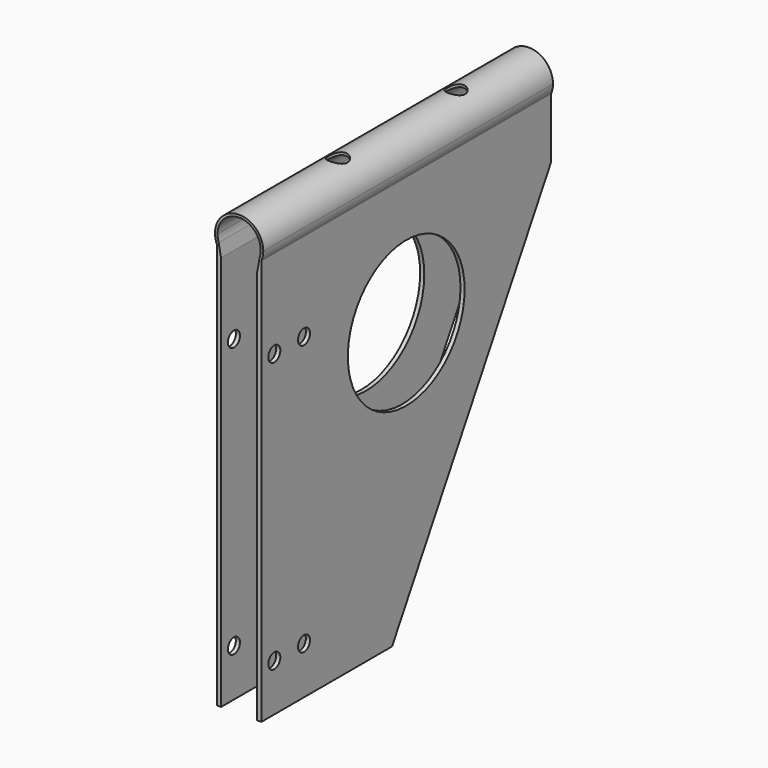
from build123d import *

# Parameters (mm, degrees)
F1_DEPTH  = 300
F3_DEPTH  = 300
F4_R      = 6.225
F5_DEPTH  = 200
F6_R      = 7.4994450041
F6_R_2    = 7.7853905485
F7_DEPTH  = 106.4144483809
F9_DEPTH  = 1000
F10_R     = 60.4522878615
F11_DEPTH = 500


with BuildPart() as f1:
    # F0 (on Front) → F1 (new body)
    with BuildSketch(Plane.XZ):
        with BuildLine():
            Line((-18.0362154643, 86.4134483809), (18.8106045383, 86.4134483809))
            Line((18.8106045383, 86.4134483809), (18.8106045383, 78.6302636906))
            ThreePointArc((18.8106045383, 78.6302636906), (19.9890847523, 82.4428187096), (20.387194537, 86.4134483809))
            ThreePointArc((20.387194537, 86.4134483809), (-3.5834351343, 106.0153385962), (-18.0362154643, 78.6302636906))
            Line((-18.0362154643, 78.6302636906), (-18.0362154643, 86.4134483809))
        make_face()
        with BuildLine():
            Line((18.8106045383, 78.6302636906), (18.8106045383, 86.4134483809))
            Line((18.8106045383, 86.4134483809), (-18.0362154643, 86.4134483809))
            Line((-18.0362154643, 86.4134483809), (-18.0362154643, 78.6302636906))
            ThreePointArc((-18.0362154643, 78.6302636906), (0.387194537, 66.4134483809), (18.8106045383, 78.6302636906))
        make_face()
        with BuildLine():
            Line((18.8106045383, -257.5025590471), (18.8106045383, 78.6302636906))
            ThreePointArc((18.8106045383, 78.6302636906), (0.387194537, 66.4134483809), (-18.0362154643, 78.6302636906))
            Line((-18.0362154643, 78.6302636906), (-18.0362154643, -257.5025590471))
            Line((-18.0362154643, -257.5025590471), (18.8106045383, -257.5025590471))
        make_face()
    extrude(amount=F1_DEPTH)

    # F2 (on face) → F3 (cut)
    with BuildSketch(Plane(origin=(0, 0, 0), x_dir=(-1, 0, 0), z_dir=(0, 1, 0))):
        with BuildLine():
            Line((175.8913316219, 44.6973187515), (175.9091161187, 44.6973187515))
            ThreePointArc((175.9091161187, 44.6973187515), (159.7223112701, 60.9808530469), (143.5343522574, 44.6984661409))
            Line((143.5343522574, 44.6984661409), (143.5521367467, 44.6984661409))
            ThreePointArc((143.5521367467, 44.6984661409), (159.6743751329, 60.9629995089), (175.8916158384, 44.7931905997))
            ThreePointArc((175.8916158384, 44.7931905997), (175.8915447841, 44.7452544649), (175.8913316219, 44.6973187515))
        make_face()
        with BuildLine():
            ThreePointArc((174.2740117009, 37.7436316879), (175.4712371526, 41.1301009041), (175.8913316219, 44.6973187515))
            ThreePointArc((175.8913316219, 44.6973187515), (175.8915447841, 44.7452544649), (175.8916158384, 44.7931905997))
            ThreePointArc((175.8916158384, 44.7931905997), (159.6743751329, 60.9629995089), (143.5521367467, 44.6984661409))
            ThreePointArc((143.5521367467, 44.6984661409), (156.1515321138, 29.0223758967), (174.2740117009, 37.7436316879))
        make_face()
        with BuildLine():
            ThreePointArc((14.612805463, 76.6096711506), (16.7870431212, 81.2988018789), (17.5324608163, 86.4134483809))
            ThreePointArc((17.5324608163, 86.4134483809), (-5.501841039, 103.5876860391), (-15.387194537, 76.6096711506))
            Line((-15.387194537, 76.6096711506), (-15.387194537, 86.4134483809))
            Line((-15.387194537, 86.4134483809), (-0.387194537, 86.4134483809))
            Line((-0.387194537, 86.4134483809), (14.612805463, 86.4134483809))
            Line((14.612805463, 86.4134483809), (14.612805463, 76.6096711506))
        make_face()
        with BuildLine():
            Line((-15.387194537, 86.4134483809), (-15.387194537, 76.6096711506))
            ThreePointArc((-15.387194537, 76.6096711506), (-8.9146132219, 70.6528272461), (-0.387194537, 68.4937930276))
            Line((-0.387194537, 68.4937930276), (-0.387194537, 86.4134483809))
            Line((-0.387194537, 86.4134483809), (-15.387194537, 86.4134483809))
        make_face()
        with BuildLine():
            ThreePointArc((-0.387194537, 68.4937930276), (-8.9146132219, 70.6528272461), (-15.387194537, 76.6096711506))
            Line((-15.387194537, 76.6096711506), (-15.387194537, -287.4657809734))
            Line((-15.387194537, -287.4657809734), (-0.387194537, -287.4657809734))
            Line((-0.387194537, -287.4657809734), (-0.387194537, 68.4937930276))
        make_face()
        with BuildLine():
            Line((14.612805463, -287.4657809734), (14.612805463, 76.6096711506))
            ThreePointArc((14.612805463, 76.6096711506), (8.1402241479, 70.6528272461), (-0.387194537, 68.4937930276))
            Line((-0.387194537, 68.4937930276), (-0.387194537, -287.4657809734))
            Line((-0.387194537, -287.4657809734), (14.612805463, -287.4657809734))
        make_face()
        with BuildLine():
            ThreePointArc((-0.387194537, 68.4937930276), (8.1402241479, 70.6528272461), (14.612805463, 76.6096711506))
            Line((14.612805463, 76.6096711506), (14.612805463, 86.4134483809))
            Line((14.612805463, 86.4134483809), (-0.387194537, 86.4134483809))
            Line((-0.387194537, 86.4134483809), (-0.387194537, 68.4937930276))
        make_face()
    extrude(amount=-F3_DEPTH, mode=Mode.SUBTRACT)

    # F4 (on face) → F5 (cut)
    with BuildSketch(Plane.YZ.offset(18.8106045383)):
        with Locations((-286.6114377975, 5.4957243272)):
            Circle(F4_R)
        with Locations((-255.8714377975, 5.4957243272)):
            Circle(F4_R)
        with Locations((-255.8714377975, -218.297693353)):
            Circle(F4_R)
        with Locations((-286.6114377975, -218.297693353)):
            Circle(F4_R)
    extrude(amount=-F5_DEPTH, mode=Mode.SUBTRACT)

    # F6 (on Top) → F7 (cut, through all)
    with BuildSketch(Plane.XY):
        with Locations((0, -74.8674422503)):
            Circle(F6_R)
        with Locations((0, -197.1199959517)):
            Circle(F6_R_2)
    extrude(amount=F7_DEPTH, mode=Mode.SUBTRACT)

    # F8 (on Front) → F9 (cut)
    with BuildSketch(Plane.XZ):
        Polygon((15.4558392242, 69.8942989111), (17.4741577357, 81.283390522), (-16.6930966079, 81.283390522), (-14.6026955917, 69.8942989111), align=None)
    extrude(amount=F9_DEPTH, mode=Mode.SUBTRACT)

    # F10 (on face) → F11 (cut)
    with BuildSketch(Plane.YZ.offset(18.8106045383)):
        Polygon((0, 28.7725478411), (-164.6585613489, -257.5025590471), (0, -257.5025590471), align=None)
        with Locations((-150, -27.5025590471)):
            Circle(F10_R)
    extrude(amount=-F11_DEPTH, mode=Mode.SUBTRACT)


solid = f1.part
